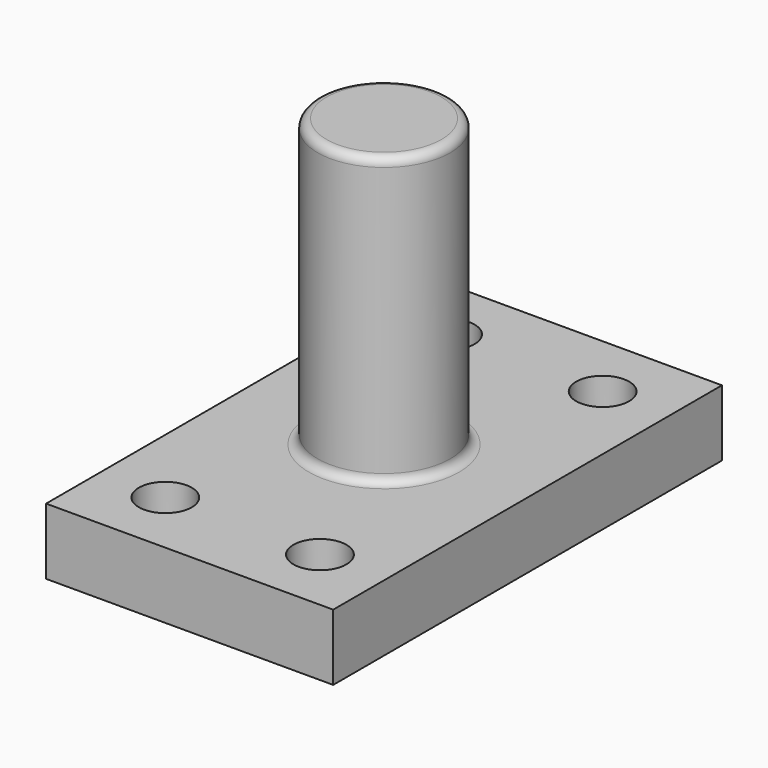
from build123d import *

# Parameters (mm, degrees)
F0_W      = 65
F0_H      = 110
F1_DEPTH  = 100
F2_W      = 65
F2_H      = 110
F2_R      = 15
F3_DEPTH  = 85
F1_FACE_R = 15
F4_DEPTH  = 20
F5_R      = 6
F6_DEPTH  = 30
F7_R      = 2


with BuildPart() as f1:
    # F0 (on Top) → F1 (new body)
    with BuildSketch(Plane.XY):
        Rectangle(F0_W, F0_H)
    extrude(amount=F1_DEPTH)

    # F2 (on face) → F3 (cut)
    with BuildSketch(Plane.XY.offset(100)):
        Rectangle(F2_W, F2_H)
        Circle(F2_R, mode=Mode.SUBTRACT)
    extrude(amount=-F3_DEPTH, mode=Mode.SUBTRACT)

    # F1_face (on face) → F4 (cut)
    with BuildSketch(Plane.XY.offset(100)):
        Circle(F1_FACE_R)
    extrude(amount=-F4_DEPTH, mode=Mode.SUBTRACT)

    # F5 (on face) → F6 (cut)
    with BuildSketch(Plane.XY.offset(15)):
        with Locations((-17.5, 40)):
            Circle(F5_R)
        with Locations((17.500002, 40)):
            Circle(F5_R)
        with Locations((17.500002, -40)):
            Circle(F5_R)
        with Locations((-17.5, -40)):
            Circle(F5_R)
    extrude(amount=-F6_DEPTH, mode=Mode.SUBTRACT)

    # F7
    f7_edges = [f1.edges().sort_by_distance(p)[0] for p in [
        (-15, 0, 80),
        (-15, 0, 15),
    ]]
    fillet(f7_edges, radius=F7_R)


solid = f1.part
